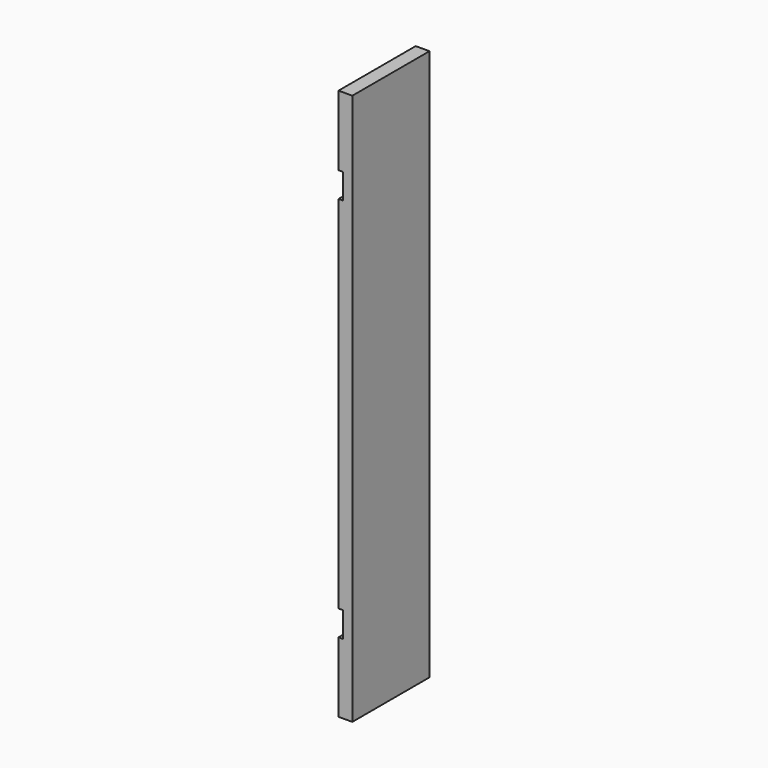
from build123d import *

# Parameters (mm, degrees)
F0_W     = 38.1
F0_H     = 266.7
F1_DEPTH = 1524
F2_W     = 152.4
F2_H     = 69.85
F3_DEPTH = 12.7


with BuildPart() as f1:
    # F0 (on Top) → F1 (new body)
    with BuildSketch(Plane.XY):
        with Locations((-19.05, 133.35)):
            Rectangle(F0_W, F0_H)
    extrude(amount=F1_DEPTH)

    # F2 (on face) → F3 (cut)
    with BuildSketch(Plane(origin=(-38.1, 0, 0), x_dir=(0, -1, 0), z_dir=(-1, 0, 0))):
        with Locations((-76.2, 228.6)):
            Rectangle(F2_W, F2_H)
        with Locations((-76.2, 1295.4)):
            Rectangle(F2_W, F2_H)
    extrude(amount=-F3_DEPTH, mode=Mode.SUBTRACT)


solid = f1.part
